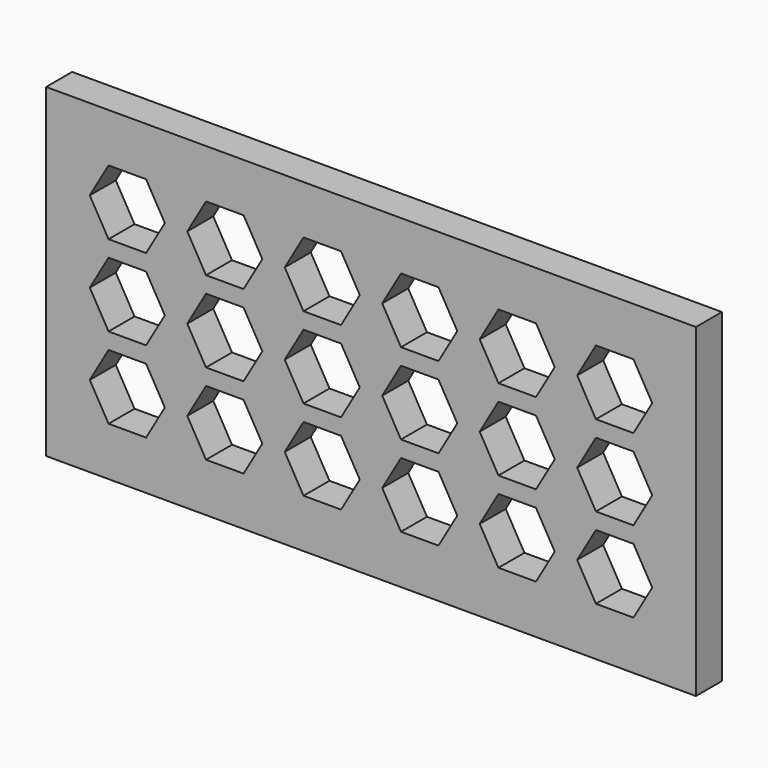
from build123d import *

# Parameters (mm, degrees)
F0_W     = 508
F0_H     = 254
F1_DEPTH = 25.4


with BuildPart() as f1:
    # F0 (on Front) → F1 (new body)
    with BuildSketch(Plane.XZ):
        Rectangle(F0_W, F0_H)
        Polygon((-161.170606, -63.5), (-175.835303, -88.9), (-205.164697, -88.9), (-219.829394, -63.5), (-205.164697, -38.1), (-175.835303, -38.1), align=None, mode=Mode.SUBTRACT)
        Polygon((-99.635303, -88.9), (-128.964697, -88.9), (-143.629394, -63.5), (-128.964697, -38.1), (-99.635303, -38.1), (-84.970606, -63.5), align=None, mode=Mode.SUBTRACT)
        Polygon((-67.429394, -63.5), (-52.764697, -38.1), (-23.435303, -38.1), (-8.770606, -63.5), (-23.435303, -88.9), (-52.764697, -88.9), align=None, mode=Mode.SUBTRACT)
        Polygon((52.764697, -88.9), (23.435303, -88.9), (8.770606, -63.5), (23.435303, -38.1), (52.764697, -38.1), (67.429394, -63.5), align=None, mode=Mode.SUBTRACT)
        Polygon((128.964697, -38.1), (143.629394, -63.5), (128.964697, -88.9), (99.635303, -88.9), (84.970606, -63.5), (99.635303, -38.1), align=None, mode=Mode.SUBTRACT)
        Polygon((205.164697, -88.9), (175.835303, -88.9), (161.170606, -63.5), (175.835303, -38.1), (205.164697, -38.1), (219.829394, -63.5), align=None, mode=Mode.SUBTRACT)
        Polygon((-161.170606, 0), (-175.835303, -25.4), (-205.164697, -25.4), (-219.829394, 0), (-205.164697, 25.4), (-175.835303, 25.4), align=None, mode=Mode.SUBTRACT)
        Polygon((-99.635303, -25.4), (-128.964697, -25.4), (-143.629394, 0), (-128.964697, 25.4), (-99.635303, 25.4), (-84.970606, 0), align=None, mode=Mode.SUBTRACT)
        Polygon((-67.429394, 0), (-52.764697, 25.4), (-23.435303, 25.4), (-8.770606, 0), (-23.435303, -25.4), (-52.764697, -25.4), align=None, mode=Mode.SUBTRACT)
        Polygon((-175.835303, 88.9), (-161.170606, 63.5), (-175.835303, 38.1), (-205.164697, 38.1), (-219.829394, 63.5), (-205.164697, 88.9), align=None, mode=Mode.SUBTRACT)
        Polygon((-99.635303, 88.9), (-84.970606, 63.5), (-99.635303, 38.1), (-128.964697, 38.1), (-143.629394, 63.5), (-128.964697, 88.9), align=None, mode=Mode.SUBTRACT)
        Polygon((-23.435303, 88.9), (-8.770606, 63.5), (-23.435303, 38.1), (-52.764697, 38.1), (-67.429394, 63.5), (-52.764697, 88.9), align=None, mode=Mode.SUBTRACT)
        Polygon((52.764697, -25.4), (23.435303, -25.4), (8.770606, 0), (23.435303, 25.4), (52.764697, 25.4), (67.429394, 0), align=None, mode=Mode.SUBTRACT)
        Polygon((128.964697, 25.4), (143.629394, 0), (128.964697, -25.4), (99.635303, -25.4), (84.970606, 0), (99.635303, 25.4), align=None, mode=Mode.SUBTRACT)
        Polygon((205.164697, -25.4), (175.835303, -25.4), (161.170606, 0), (175.835303, 25.4), (205.164697, 25.4), (219.829394, 0), align=None, mode=Mode.SUBTRACT)
        Polygon((52.764697, 88.9), (67.429394, 63.5), (52.764697, 38.1), (23.435303, 38.1), (8.770606, 63.5), (23.435303, 88.9), align=None, mode=Mode.SUBTRACT)
        Polygon((128.964697, 88.9), (143.629394, 63.5), (128.964697, 38.1), (99.635303, 38.1), (84.970606, 63.5), (99.635303, 88.9), align=None, mode=Mode.SUBTRACT)
        Polygon((205.164697, 88.9), (219.829394, 63.5), (205.164697, 38.1), (175.835303, 38.1), (161.170606, 63.5), (175.835303, 88.9), align=None, mode=Mode.SUBTRACT)
    extrude(amount=F1_DEPTH)


solid = f1.part
